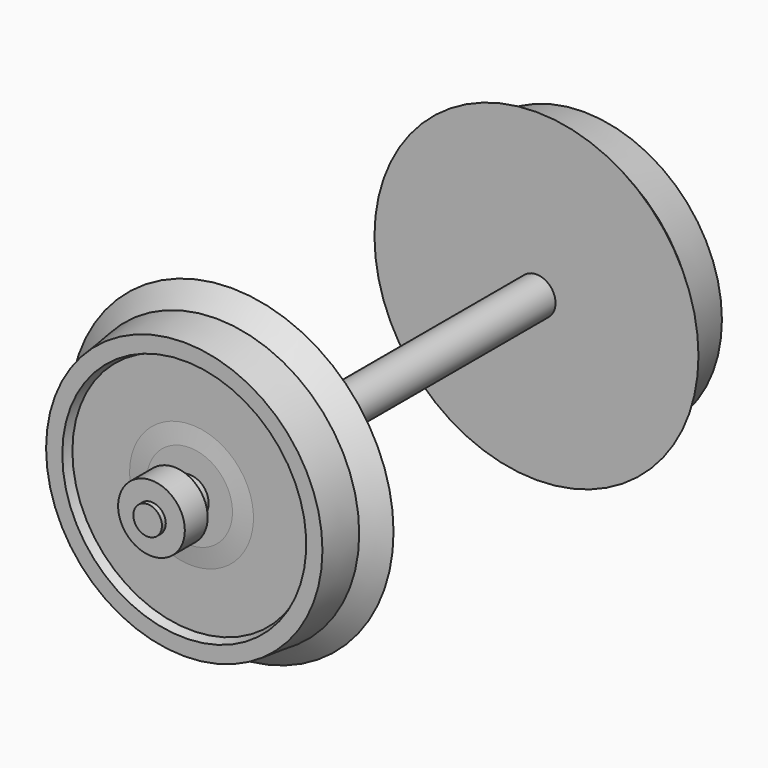
from build123d import *

# Parameters (mm, degrees)
CYLINDER017_R          = 2
CYLINDER017_DEPTH      = 10
CUT011_PLACEMENT_ANGLE = 180
CYLINDER020_R          = 2
CYLINDER020_DEPTH      = 55
CYLINDER021_R          = 1.5
CYLINDER021_DEPTH      = 62
TUBE008_R              = 3.5
TUBE008_R_2            = 1.5
TUBE008_DEPTH          = 3
TUBE009_R              = 3.5
TUBE009_R_2            = 1.5
TUBE009_DEPTH          = 3
CYLINDER016_R          = 2
CYLINDER016_DEPTH      = 10


with BuildPart() as cylinder017:
    # Cylinder017 → Cylinder017 (new body)
    with BuildSketch(Plane.XZ.offset(-8)):
        Circle(CYLINDER017_R)
    extrude(amount=CYLINDER017_DEPTH)


with BuildPart() as rad_b:
    # Sketch005 → Revolve002 (revolve)
    with BuildSketch(Plane.XY):
        Polygon((0, 0), (17, 0), (15, 2), (14.5, 6.2), (12.8, 6.2), (12.5, 5.25), (6.5, 5.25), (4.5, 5.5), (0, 5.5), align=None)
    revolve(axis=Axis((0, 0, 0), (0, -1, 0)))

    # Cut011: cut Cylinder017
    add(cylinder017.part, mode=Mode.SUBTRACT)


with BuildPart() as rad_b_1:
    # Cut011 placement: moved
    add(rad_b.part.moved(Location((0, -40, 0))).rotate(Axis((0, -40, 0), (0, 0, 1)), CUT011_PLACEMENT_ANGLE))


with BuildPart() as cylinder020:
    # Cylinder020 → Cylinder020 (new body)
    with BuildSketch(Plane.XZ.offset(-7.5)):
        Circle(CYLINDER020_R)
    extrude(amount=CYLINDER020_DEPTH)


with BuildPart() as achse_a:
    # Cylinder021 → Cylinder021 (new body)
    with BuildSketch(Plane.XZ.offset(-11)):
        Circle(CYLINDER021_R)
    extrude(amount=CYLINDER021_DEPTH)

    # Fusion031: union Cylinder020
    add(cylinder020.part)


with BuildPart() as obj1:
    # Tube008 → Tube008 (new body)
    with BuildSketch(Plane(origin=(0, 7.5, 0), x_dir=(1, 0, 0), z_dir=(0, 1, 0))):
        Circle(TUBE008_R)
        Circle(TUBE008_R_2, mode=Mode.SUBTRACT)
    extrude(amount=TUBE008_DEPTH)


with BuildPart() as obj2:
    # Tube009 → Tube009 (new body)
    with BuildSketch(Plane(origin=(0, -50.5, 0), x_dir=(1, 0, 0), z_dir=(0, 1, 0))):
        Circle(TUBE009_R)
        Circle(TUBE009_R_2, mode=Mode.SUBTRACT)
    extrude(amount=TUBE009_DEPTH)


with BuildPart() as cylinder016:
    # Cylinder016 → Cylinder016 (new body)
    with BuildSketch(Plane.XZ.offset(-8)):
        Circle(CYLINDER016_R)
    extrude(amount=CYLINDER016_DEPTH)


with BuildPart() as obj3:
    # Sketch005 → Revolve001 (revolve)
    with BuildSketch(Plane.XY):
        Polygon((0, 0), (17, 0), (15, 2), (14.5, 6.2), (12.8, 6.2), (12.5, 5.25), (6.5, 5.25), (4.5, 5.5), (0, 5.5), align=None)
    revolve(axis=Axis((0, 0, 0), (0, -1, 0)))

    # Cut010: cut Cylinder016
    add(cylinder016.part, mode=Mode.SUBTRACT)

    # Fusion078: union Rad-B, Achse-A, obj1, obj2
    add(rad_b_1.part)
    add(achse_a.part)
    add(obj1.part)
    add(obj2.part)


solid = obj3.part
